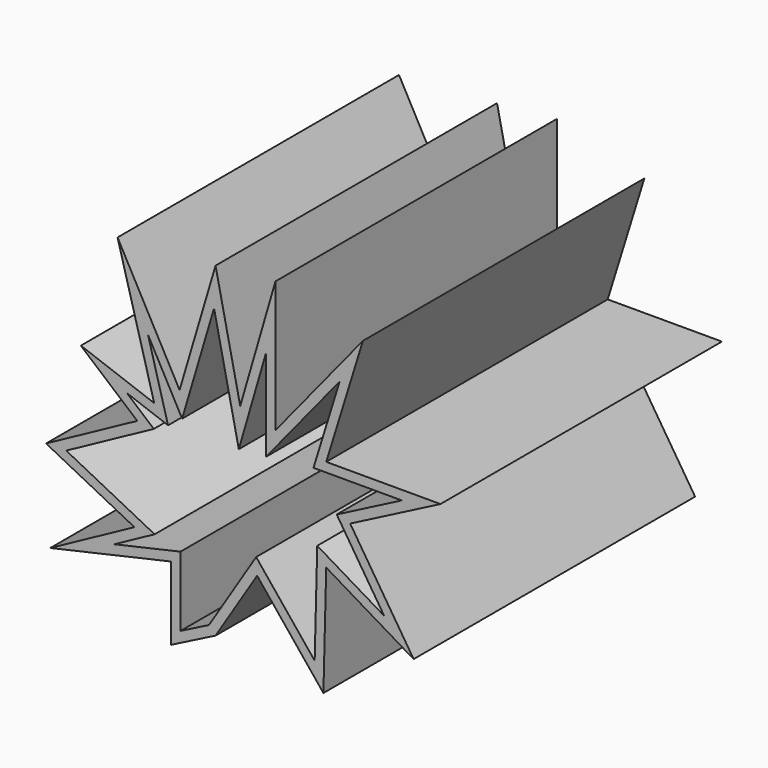
from build123d import *

# Parameters (mm, degrees)
F1_DEPTH = 76.2
F3_DEPTH = 59.69


with BuildPart() as f1:
    # F0 (on Front) → F1 (new body)
    with BuildSketch(Plane.XZ):
        Polygon((-9.623217, -31.607002), (0, -26.720898), (9.005067, -12.367957), (23.358002, -30.080097), (23.968766, -5.954943), (42.902432, -17.254066), (29.160259, 4.122653), (48.704684, 14.200249), (23.968766, 14.200249), (31.908695, 39.85231), (12.975028, 16.643301), (12.975028, 45.043796), (5.340484, 18.780973), (0, 43.822274), (-7.790928, 17.559446), (-21.227721, 42.295363), (-13.287797, 13.284104), (-29.167645, 19.086355), (-16.952377, 8.703378), (-36.70152, -2.024551), (-17.56314, -11.757195), (-35.789758, -21.658073), (-9.623217, -15.727157), align=None)
    extrude(amount=F1_DEPTH)

    # F2 (on face) → F3 (cut)
    with BuildSketch(Plane.XZ.offset(76.2)):
        Polygon((21.212701, 12.168249), (26.877798, 30.47086), (10.943028, 10.937917), (10.943028, 30.774279), (5.037519, 10.459334), (-0.322264, 35.591124), (-7.236843, 12.282424), (-14.633635, 25.899247), (-10.289114, 10.025038), (-19.200415, 13.281089), (-13.378382, 8.332362), (-32.335366, -1.965259), (-13.196986, -11.697903), (-21.902551, -16.426851), (-7.591217, -13.18304), (-7.591217, -28.296349), (-1.422014, -25.16399), (8.794351, -8.880393), (21.466165, -24.517956), (22.025383, -2.428849), (36.515134, -11.075958), (26.24216, 4.904228), (40.329954, 12.168249), align=None)
    extrude(amount=-F3_DEPTH, mode=Mode.SUBTRACT)


solid = f1.part
